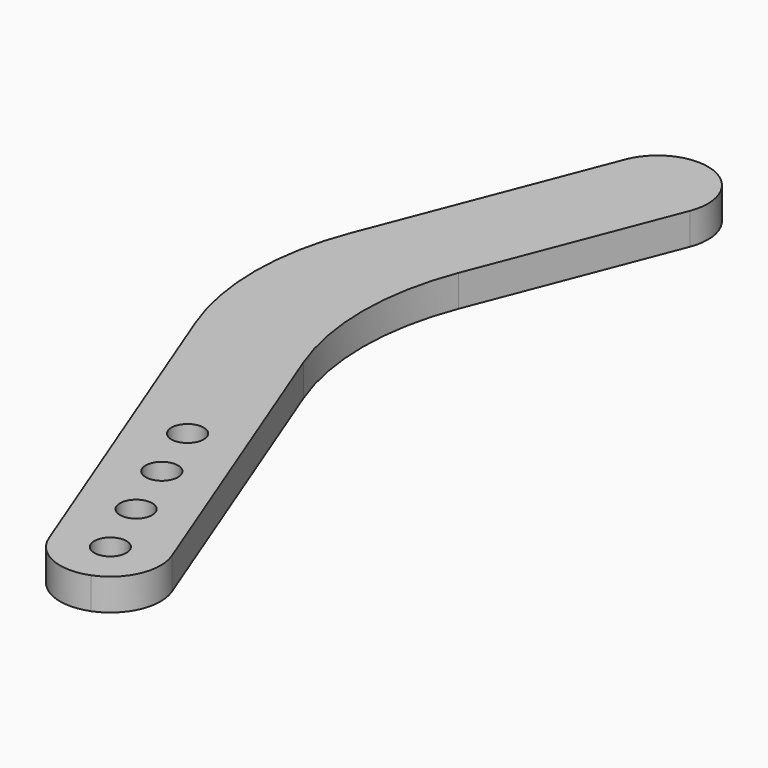
from build123d import *

# Parameters (mm, degrees)
F0_R     = 1.524
F1_DEPTH = 2.9972
F2_R     = 1.524
F3_DEPTH = 25.4


with BuildPart() as f1:
    # F0 (on Top) → F1 (new body)
    with BuildSketch(Plane.XY):
        with BuildLine():
            Line((-37.379961, -16.733977), (-24.287476, -50.458512))
            ThreePointArc((-24.287476, -50.458512), (-21.76838, -53.093017), (-18.124234, -53.174625))
            ThreePointArc((-18.124234, -53.174625), (-15.489729, -50.655529), (-15.408122, -47.011383))
            Line((-15.408122, -47.011383), (-27.162368, -16.733977))
            ThreePointArc((-27.162368, -16.733977), (-28.88409, -7.541634), (-27.162368, 1.650709))
            Line((-27.162368, 1.650709), (-20.004293, 20.088977))
            ThreePointArc((-20.004293, 20.088977), (-20.0859, 23.733123), (-22.720406, 26.252218))
            ThreePointArc((-22.720406, 26.252218), (-26.364552, 26.170611), (-28.883647, 23.536105))
            Line((-28.883647, 23.536105), (-37.379961, 1.650709))
            ThreePointArc((-37.379961, 1.650709), (-39.101683, -7.541634), (-37.379961, -16.733977))
        make_face()
        with Locations((-19.847799, -48.734948)):
            Circle(F0_R, mode=Mode.SUBTRACT)
    extrude(amount=F1_DEPTH)

    # F2 (on Top) → F3 (cut)
    with BuildSketch(Plane.XY):
        with Locations((-26.742056, -30.976239)):
            Circle(F2_R)
        with Locations((-24.44397, -36.895809)):
            Circle(F2_R)
        with Locations((-22.145884, -42.815378)):
            Circle(F2_R)
    extrude(amount=F3_DEPTH, mode=Mode.SUBTRACT)


solid = f1.part
